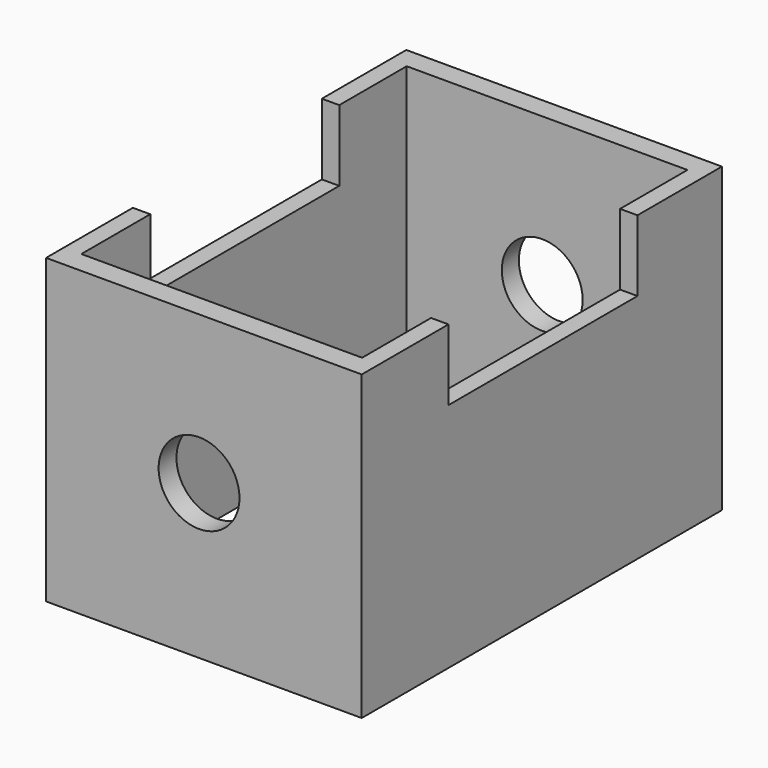
from build123d import *

# Parameters (mm, degrees)
F0_W     = 37.6381836832
F0_H     = 53.6863617599
F1_DEPTH = 36.068
F2_W     = 33.4818195552
F2_H     = 48.4909075312
F3_DEPTH = 49.53
F4_W     = 28.1709078699
F4_H     = 8.4743649774
F5_DEPTH = 90.17
F6_R     = 4.8215246932
F7_DEPTH = 119.126


with BuildPart() as f1:
    # F0 (on Top) → F1 (new body)
    with BuildSketch(Plane.XY):
        with Locations((-18.8190918416, 26.84318088)):
            Rectangle(F0_W, F0_H)
    extrude(amount=F1_DEPTH)

    # F2 (on face) → F3 (cut)
    with BuildSketch(Plane.XY.offset(36.068)):
        with Locations((-18.8190909103, 26.9009082112)):
            Rectangle(F2_W, F2_H)
    extrude(amount=-F3_DEPTH, mode=Mode.SUBTRACT)

    # F4 (on face) → F5 (cut)
    with BuildSketch(Plane.YZ):
        with Locations((27.0163631067, 31.8308175113)):
            Rectangle(F4_W, F4_H)
    extrude(amount=-F5_DEPTH, mode=Mode.SUBTRACT)

    # F6 (on face) → F7 (cut)
    with BuildSketch(Plane.XZ):
        with Locations((-19.3963646889, 18.3572731912)):
            Circle(F6_R)
    extrude(amount=-F7_DEPTH, mode=Mode.SUBTRACT)


solid = f1.part
